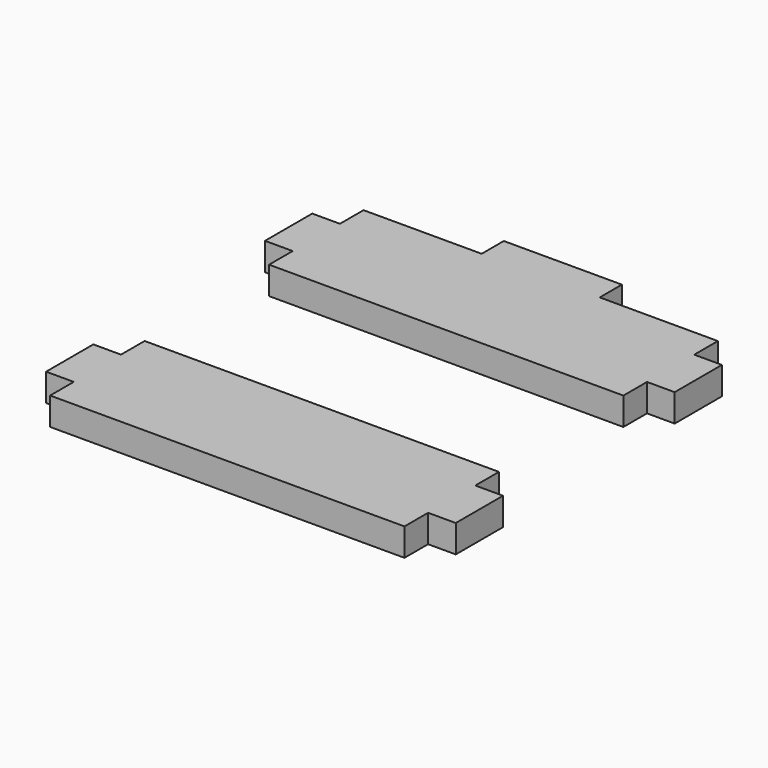
from build123d import *

# Parameters (mm, degrees)
F0_W     = 5.953125
F0_H     = 12.7
F0_W_2   = 25.4
F0_H_2   = 5.953125
F1_DEPTH = 5.953125


with BuildPart() as f1:
    # F0 (on Top) → F1 (new body)
    with BuildSketch(Plane.XY):
        Polygon((-13.6746525526, 43.1187802434), (-39.0746525526, 43.1187802434), (-39.0746525526, 36.7687802434), (-39.0746525526, 24.0687802434), (-39.0746525526, 17.7187802434), (37.1253474474, 17.7187802434), (37.1253474474, 24.0687802434), (37.1253474474, 36.7687802434), (37.1253474474, 43.1187802434), (11.7253474474, 43.1187802434), align=None)
        with Locations((-42.0512150526, 30.4187802434)):
            Rectangle(F0_W, F0_H)
        with Locations((-0.9746525526, 46.0953427434)):
            Rectangle(F0_W_2, F0_H_2)
        with Locations((40.1019099474, 30.4187802434)):
            Rectangle(F0_W, F0_H)
    extrude(amount=F1_DEPTH)


with BuildPart() as f1b:
    # F0 (on Top) → F1, piece 2 (new body)
    with BuildSketch(Plane.XY):
        Polygon((38.144393158, -17.0048123717), (-38.055606842, -17.0048123717), (-38.055606842, -23.3548123717), (-38.055606842, -36.0548123717), (-38.055606842, -42.4048123717), (38.144393158, -42.4048123717), (38.144393158, -36.0548123717), (38.144393158, -23.3548123717), align=None)
        with Locations((-41.032169342, -29.7048123717)):
            Rectangle(F0_W, F0_H)
        with Locations((41.120955658, -29.7048123717)):
            Rectangle(F0_W, F0_H)
    extrude(amount=F1_DEPTH)


solid = Compound([f1.part, f1b.part])
